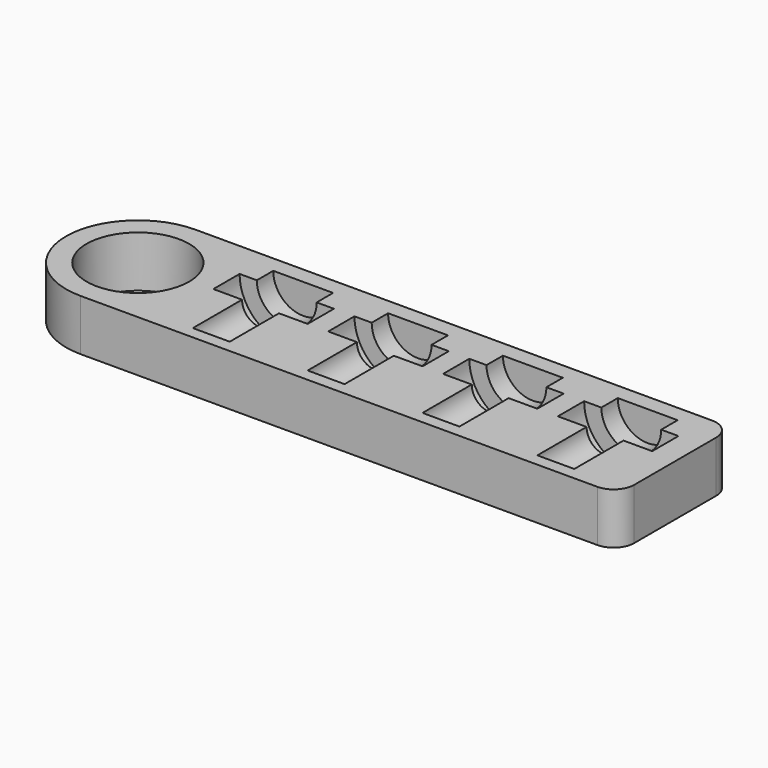
from build123d import *

# Parameters (mm, degrees)
F0_R     = 12.5
F1_DEPTH = 12.5


with BuildPart() as f1:
    # F0 (on Top) → F1 (new body)
    with BuildSketch(Plane.XY):
        with BuildLine():
            ThreePointArc((0, 17.5), (5.125631, 5.125631), (17.5, 0))
            Line((17.5, 0), (143.5, 0))
            ThreePointArc((143.5, 0), (147.035534, 1.464466), (148.5, 5))
            Line((148.5, 5), (148.5, 30))
            ThreePointArc((148.5, 30), (147.035534, 33.535534), (143.5, 35))
            Line((143.5, 35), (17.5, 35))
            ThreePointArc((17.5, 35), (5.125631, 29.874369), (0, 17.5))
        make_face()
        with Locations((17.5, 17.5)):
            Circle(F0_R, mode=Mode.SUBTRACT)
    extrude(amount=F1_DEPTH)

    # F2 (on face) → F3 (revolve, cut)
    with BuildSketch(Plane.XY.offset(12.5)):
        Polygon((47, 18), (47, 3), (51.5, 3), (51.5, 18), (58.5, 18), (58.5, 26), (54.3, 26), (54.3, 31), (47, 31), (47, 26), align=None)
    revolve(axis=Axis((47, 10.5, 12.5), (0, 1, 0)), mode=Mode.SUBTRACT)

    # F2 (on face) → F4 (revolve, cut)
    with BuildSketch(Plane.XY.offset(12.5)):
        Polygon((75, 18), (75, 3), (79.5, 3), (79.5, 18), (86.5, 18), (86.5, 26), (82.3, 26), (82.3, 31), (75, 31), (75, 26), align=None)
    revolve(axis=Axis((75, 22, 12.5), (0, 1, 0)), mode=Mode.SUBTRACT)

    # F2 (on face) → F5 (revolve, cut)
    with BuildSketch(Plane.XY.offset(12.5)):
        Polygon((103, 18), (103, 3), (107.5, 3), (107.5, 18), (114.5, 18), (114.5, 26), (110.3, 26), (110.3, 31), (103, 31), (103, 26), align=None)
    revolve(axis=Axis((103, 22, 12.5), (0, 1, 0)), mode=Mode.SUBTRACT)

    # F2 (on face) → F6 (revolve, cut)
    with BuildSketch(Plane.XY.offset(12.5)):
        Polygon((131, 18), (131, 3), (135.5, 3), (135.5, 18), (142.5, 18), (142.5, 26), (138.3, 26), (138.3, 31), (131, 31), (131, 26), align=None)
    revolve(axis=Axis((131, 22, 12.5), (0, 1, 0)), mode=Mode.SUBTRACT)


solid = f1.part
